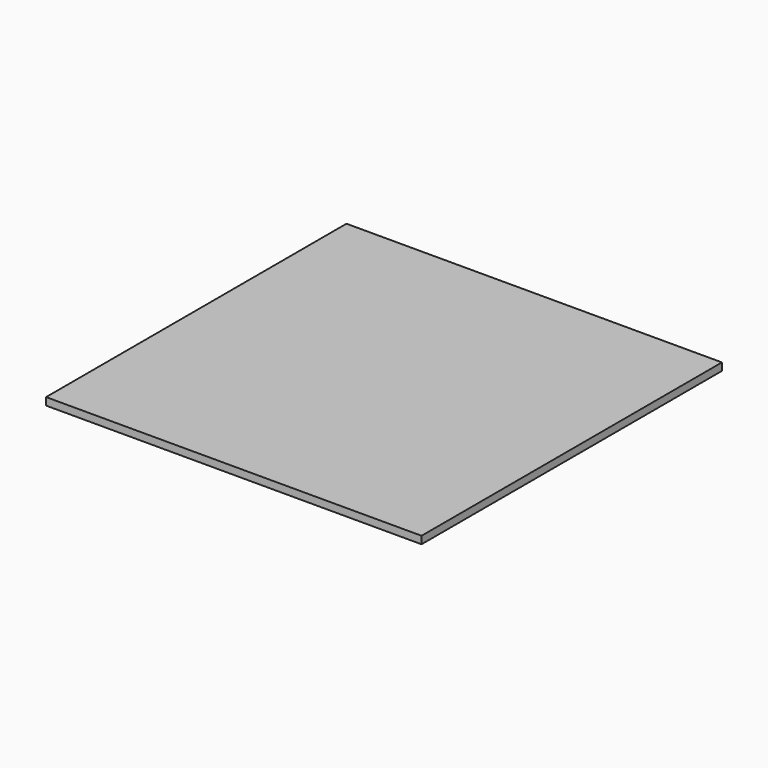
from build123d import *

# Parameters (mm, degrees)
BOX_W     = 10000
BOX_H     = 10000
BOX_DEPTH = 200


with BuildPart() as part:
    # Box → Box (new body)
    with BuildSketch(Plane.XY):
        with Locations((5000, 5000)):
            Rectangle(BOX_W, BOX_H)
    extrude(amount=BOX_DEPTH)


solid = part.part
